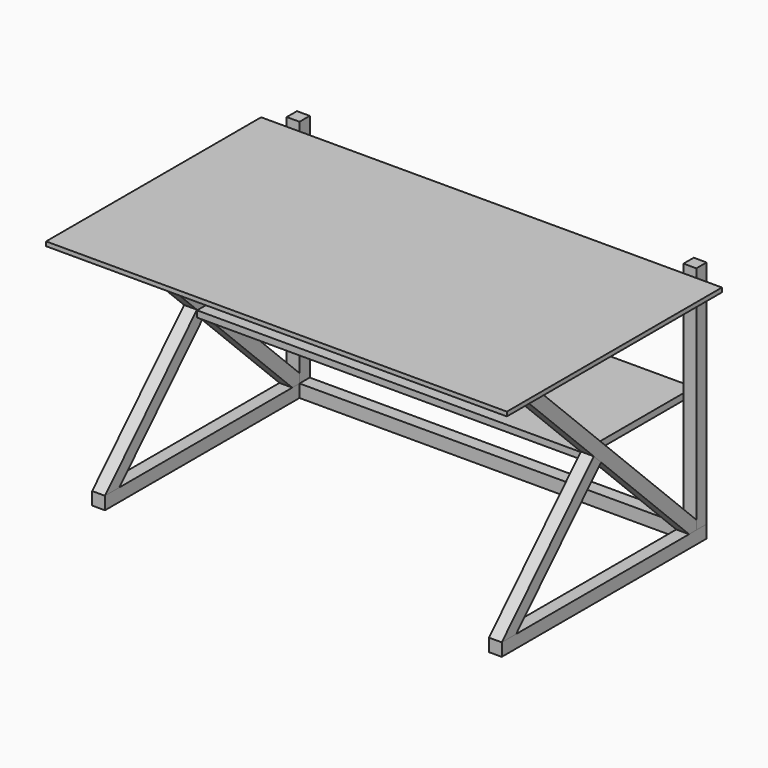
from build123d import *

# Parameters (mm, degrees)
F0_W           = 38.1
F0_H           = 762
F1_DEPTH       = 38.1
F2_W           = 38.1
F2_H           = 38.1
F3_DEPTH       = 685.8
F5_DEPTH       = 38.1
F6_W           = 38.1
F6_H           = 38.1
F7_DEPTH       = 723.9
F9_W           = 419.1
F9_H           = 19.05
F10_DEPTH      = 1143
F11_W          = 1371.6
F11_H          = 800.1
F12_DEPTH      = 12.7
F13_W          = 38.1
F13_H          = 38.1
F14_DEPTH      = 571.5
F14_DEPTH_BACK = 571.5
F16_DEPTH      = 38.1


with BuildPart() as f1:
    # F0 (on Top) → F1 (new body)
    with BuildSketch(Plane.XY):
        with Locations((-590.55, 0)):
            Rectangle(F0_W, F0_H)
        with Locations((590.55, 0)):
            Rectangle(F0_W, F0_H)
    extrude(amount=F1_DEPTH)


with BuildPart() as f3:
    # F2 (on face) → F3 (new body)
    with BuildSketch(Plane.XY.offset(38.1)):
        with Locations((-590.55, 361.95)):
            Rectangle(F2_W, F2_H)
        with Locations((590.55, 361.95)):
            Rectangle(F2_W, F2_H)
    extrude(amount=F3_DEPTH)


with BuildPart() as f5:
    # F4 (on face) → F5 (new body)
    with BuildSketch(Plane.YZ.offset(609.6)):
        Polygon((315.958124, 38.1), (342.9, 38.1), (342.9, 65.041876), (-250.423103, 647.7), (-304.8, 647.7), align=None)
    extrude(amount=-F5_DEPTH)


with BuildPart() as f7:
    # F6 (on face) → F7 (new body)
    with BuildSketch(Plane.XZ.offset(-342.9)):
        with Locations((-590.55, 666.75)):
            Rectangle(F6_W, F6_H)
        with Locations((590.55, 666.75)):
            Rectangle(F6_W, F6_H)
    extrude(amount=F7_DEPTH)


with BuildPart() as f8_1:
    # F8: instance of F5
    add(f5.part.mirror(Plane.YZ))


with BuildPart() as f10:
    # F9 (on face) → F10 (new body, through all)
    with BuildSketch(Plane(origin=(571.5, 0, 0), x_dir=(0, -1, 0), z_dir=(-1, 0, 0))):
        with Locations((-171.45, 375.078514)):
            Rectangle(F9_W, F9_H)
    extrude(amount=F10_DEPTH)


with BuildPart() as f12:
    # F11 (on face) → F12 (new body)
    with BuildSketch(Plane.XY.offset(685.8)):
        with Locations((0, -57.15)):
            Rectangle(F11_W, F11_H)
    extrude(amount=F12_DEPTH)


with BuildPart() as f14:
    # F13 (on Right) → F14 (new body, two sides)
    with BuildSketch(Plane.YZ) as f14_sk:
        with Locations((361.95, 19.05)):
            Rectangle(F13_W, F13_H)
    extrude(amount=F14_DEPTH)
    extrude(f14_sk.sketch, amount=-F14_DEPTH_BACK)


with BuildPart() as f16:
    # F15 (on face) → F16 (new body)
    with BuildSketch(Plane.YZ.offset(609.6)):
        Polygon((-38.841135, 386.521744), (-381, 38.1), (-327.600528, 38.1), (-11.657158, 359.826399), align=None)
    extrude(amount=-F16_DEPTH)


with BuildPart() as f17_1:
    # F17: instance of F16
    add(f16.part.mirror(Plane.YZ))


solid = Compound([f1.part, f3.part, f5.part, f7.part, f8_1.part, f10.part, f12.part, f14.part, f16.part, f17_1.part])
